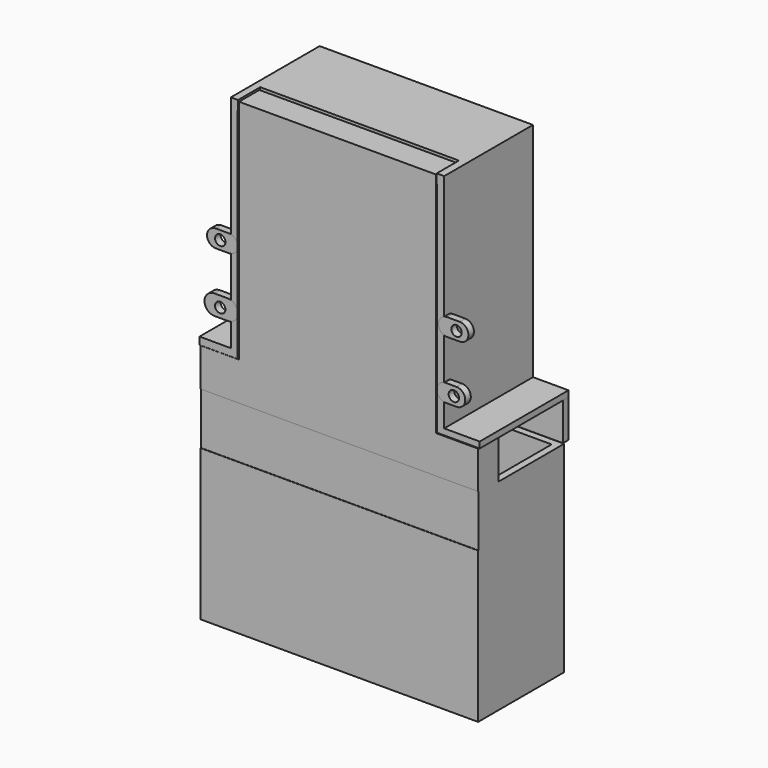
from build123d import *

# Parameters (mm, degrees)
SKETCH010_W      = 93.077843
SKETCH010_H      = 9.359066
EXTRUDE009_DEPTH = 15
SKETCH007_R      = 0.8
EXTRUDE006_DEPTH = 7
SKETCH005_R      = 3
EXTRUDE005_DEPTH = 7
SKETCH009_W      = 24.537708
SKETCH009_H      = 68.216004
SKETCH009_W_2    = 22.6015
SKETCH009_H_2    = 69.83175
EXTRUDE008_DEPTH = 10
SKETCH008_R      = 1.2
EXTRUDE007_DEPTH = 10
SKETCH004_R      = 2.5
SKETCH004_R_2    = 4
EXTRUDE004_DEPTH = 10
SKETCH003_W      = 103.848324
SKETCH003_H      = 26.207784
EXTRUDE002_DEPTH = 130
SKETCH001_W      = 76
SKETCH001_H      = 26
EXTRUDE001_DEPTH = 131
SKETCH_W         = 80
SKETCH_H         = 31
EXTRUDE_DEPTH    = 135
EXTRUDE003_DEPTH = 58
SKETCH013_W      = 29.132362
SKETCH013_H      = 15.300188
EXTRUDE012_DEPTH = 25
EXTRUDE010_DEPTH = 23
EXTRUDE011_DEPTH = 17
SKETCH018_W      = 57.288389
SKETCH018_H      = 6.586639
EXTRUDE017_DEPTH = 8
SKETCH017_R      = 2.5
EXTRUDE016_DEPTH = 60
SKETCH016_W      = 17.079002
SKETCH016_H      = 64.598137
SKETCH016_W_2    = 16.704249
SKETCH016_H_2    = 67.157876
EXTRUDE015_DEPTH = 40
SKETCH015_W      = 57.454796
SKETCH015_H      = 63.68901
EXTRUDE014_DEPTH = 30
SKETCH014_W      = 80.79409
SKETCH014_H      = 65.794357
EXTRUDE013_DEPTH = 32
SKETCH020_R      = 1.5
EXTRUDE019_DEPTH = 10
EXTRUDE018_DEPTH = 2
SKETCH021_W      = 80.805672
SKETCH021_H      = 1.984962
PAD_DEPTH        = 11


with BuildPart() as extrude010:
    # Sketch010 → Extrude009 (new body)
    with BuildSketch(Plane(origin=(0, -7, 77), x_dir=(1, 0, 0), z_dir=(0, 0, 1))):
        with BuildLine():
            ThreePointArc((7.051293, 25.057455), (0.051293, 32.057455), (-6.948707, 25.057455))
            Line((-6.948707, 25.057455), (-6.948707, 13.8))
            ThreePointArc((-6.948707, 13.8), (0.051293, 6.8), (7.051293, 13.8))
            Line((7.051293, 25.057455), (7.051293, 13.8))
        make_face()
        with Locations((0.9986, -13.084015)):
            Rectangle(SKETCH010_W, SKETCH010_H)
    extrude(amount=EXTRUDE009_DEPTH)


with BuildPart() as extrude010_1:
    # Extrude009 placement: moved
    add(extrude010.part.moved(Location((0, 0, -33.5))))


with BuildPart() as extrude007:
    # Sketch007 → Extrude006 (new body)
    with BuildSketch(Plane.XZ.offset(-0.01)):
        with Locations((-20.75, 129.764284)):
            Circle(SKETCH007_R)
        with Locations((20.75, 129.795168)):
            Circle(SKETCH007_R)
        with Locations((-20.75, 63.764284)):
            Circle(SKETCH007_R)
        with Locations((20.75, 63.795168)):
            Circle(SKETCH007_R)
    extrude(amount=EXTRUDE006_DEPTH)


with BuildPart() as cut003:
    # Sketch005 → Extrude005 (new body)
    with BuildSketch(Plane(origin=(0, 0.01, 52), x_dir=(1, 0, 0), z_dir=(0, -1, 0))):
        with Locations((-20.75, 78)):
            Circle(SKETCH005_R)
        with Locations((20.75, 78)):
            Circle(SKETCH005_R)
        with Locations((-20.75, 12)):
            Circle(SKETCH005_R)
        with Locations((20.75, 12)):
            Circle(SKETCH005_R)
    extrude(amount=EXTRUDE005_DEPTH)

    # Cut003: cut Extrude007
    add(extrude007.part, mode=Mode.SUBTRACT)


with BuildPart() as cut003_1:
    # Cut003 placement: moved
    add(cut003.part.moved(Location((0, -8.5, 0))))


with BuildPart() as extrude009:
    # Sketch009 → Extrude008 (new body)
    with BuildSketch(Plane.XZ.offset(-0.01)):
        with Locations((40.089445, 103.476563)):
            Rectangle(SKETCH009_W, SKETCH009_H)
        with Locations((-40.26037, 104.452671)):
            Rectangle(SKETCH009_W_2, SKETCH009_H_2)
    extrude(amount=EXTRUDE008_DEPTH)


with BuildPart() as extrude009_1:
    # Extrude008 placement: moved
    add(extrude009.part.moved(Location((0, -7, 0))))


with BuildPart() as extrude008:
    # Sketch008 → Extrude007 (new body)
    with BuildSketch(Plane.XZ.offset(-0.01)):
        with Locations((-12.14148, 116.549133)):
            Circle(SKETCH008_R)
        with Locations((12.29355, 116.598198)):
            Circle(SKETCH008_R)
        with Locations((-12.14148, 97.217003)):
            Circle(SKETCH008_R)
        with Locations((14.354336, 97.315132)):
            Circle(SKETCH008_R)
        with Locations((-12.249469, 74.140152)):
            Circle(SKETCH008_R)
        with Locations((14.395116, 74.68615)):
            Circle(SKETCH008_R)
        with Locations((-0.012036, 130.015305)):
            Circle(SKETCH008_R)
    extrude(amount=EXTRUDE007_DEPTH)


with BuildPart() as extrude008_1:
    # Extrude007 placement: moved
    add(extrude008.part.moved(Location((0, -4, 0))))


with BuildPart() as extrude005:
    # Sketch004 → Extrude004 (new body)
    with BuildSketch(Plane.XY.offset(0.01)):
        with Locations((-10, 2.5)):
            Circle(SKETCH004_R)
        with Locations((10, 2.5)):
            Circle(SKETCH004_R_2)
    extrude(amount=EXTRUDE004_DEPTH)


with BuildPart() as extrude005_1:
    # Extrude004 placement: moved
    add(extrude005.part.moved(Location((0, 0, -2))))


with BuildPart() as extrude003:
    # Sketch003 → Extrude002 (new body)
    with BuildSketch(Plane.XY.offset(0.01)):
        with Locations((1.479216, 4.939742)):
            Rectangle(SKETCH003_W, SKETCH003_H)
    extrude(amount=EXTRUDE002_DEPTH)


with BuildPart() as extrude003_1:
    # Extrude002 placement: moved
    add(extrude003.part.moved(Location((0, 0, 58))))


with BuildPart() as extrude001:
    # Sketch001 → Extrude001 (new body)
    with BuildSketch(Plane.XY.offset(0.01)):
        with Locations((0, 0.5)):
            Rectangle(SKETCH001_W, SKETCH001_H)
    extrude(amount=EXTRUDE001_DEPTH)


with BuildPart() as extrude001_1:
    # Extrude001 placement: moved
    add(extrude001.part.moved(Location((0, 0, 3))))


with BuildPart() as cut005:
    # Sketch → Extrude (new body)
    with BuildSketch(Plane.XY.offset(0.01)):
        Rectangle(SKETCH_W, SKETCH_H)
    extrude(amount=EXTRUDE_DEPTH)

    # Cut: cut Extrude001
    add(extrude001_1.part, mode=Mode.SUBTRACT)

    # Cut001: cut Extrude003
    add(extrude003_1.part, mode=Mode.SUBTRACT)

    # Cut002: cut Extrude005
    add(extrude005_1.part, mode=Mode.SUBTRACT)

    # Cut004: cut Extrude008
    add(extrude008_1.part, mode=Mode.SUBTRACT)

    # Cut005: cut Extrude009
    add(extrude009_1.part, mode=Mode.SUBTRACT)


with BuildPart() as cut006:
    # Sketch002 → Extrude003 (new body)
    with BuildSketch(Plane.XY.offset(0.01)):
        with BuildLine():
            ThreePointArc((1.2, 14), (0, 15.2), (-1.2, 14))
            Line((-1.2, 14), (-1.2, 1))
            ThreePointArc((-1.2, 1), (0, -0.2), (1.2, 1))
            Line((1.2, 14), (1.2, 1))
        make_face()
        with BuildLine():
            ThreePointArc((1.1, -7.5), (0, -6.4), (-1.1, -7.5))
            Line((-1.1, -7.5), (-1.1, -14))
            ThreePointArc((-1.1, -14), (0, -15.1), (1.1, -14))
            Line((1.1, -7.5), (1.1, -14))
        make_face()
    extrude(amount=EXTRUDE003_DEPTH)

    # Fusion: union Cut003, Cut005
    add(cut003_1.part)
    add(cut005.part)

    # Cut006: cut Extrude010
    add(extrude010_1.part, mode=Mode.SUBTRACT)


with BuildPart() as extrude013:
    # Sketch013 → Extrude012 (new body)
    with BuildSketch(Plane.XY.offset(0.01)):
        with Locations((0.559374, 23.156192)):
            Rectangle(SKETCH013_W, SKETCH013_H)
    extrude(amount=EXTRUDE012_DEPTH)


with BuildPart() as extrude013_1:
    # Extrude012 placement: moved
    add(extrude013.part.moved(Location((0, 0, 34))))


with BuildPart() as extrude011:
    # Sketch011 → Extrude010 (new body)
    with BuildSketch(Plane(origin=(0, -7, 0), x_dir=(1, 0, 0), z_dir=(0, 0, 1))):
        with BuildLine():
            ThreePointArc((7, 25.06), (0, 32.06), (-7, 25.06))
            Line((-7, 25.06), (-7, 13.8))
            ThreePointArc((-7, 13.8), (0, 6.8), (7, 13.8))
            Line((7, 25.06), (7, 13.8))
        make_face()
    extrude(amount=EXTRUDE010_DEPTH)


with BuildPart() as extrude011_1:
    # Extrude010 placement: moved
    add(extrude011.part.moved(Location((0, 0, 2))))


with BuildPart() as fusion001:
    # Sketch012 → Extrude011 (new body)
    with BuildSketch(Plane.XY.offset(0.01)):
        with BuildLine():
            ThreePointArc((-9, 7.295259), (0, -1.704741), (9, 7.295259))
            Line((9, 7.295259), (9, 18.555259))
            ThreePointArc((9, 18.555259), (0, 27.555259), (-9, 18.555259))
            Line((-9, 7.295259), (-9, 18.555259))
        make_face()
    extrude(amount=EXTRUDE011_DEPTH)

    # Cut007: cut Extrude011
    add(extrude011_1.part, mode=Mode.SUBTRACT)


with BuildPart() as fusion001_1:
    # Cut007 placement: moved
    add(fusion001.part.moved(Location((0, 0, 41))))

    # Cut008: cut Extrude013
    add(extrude013_1.part, mode=Mode.SUBTRACT)

    # Fusion001: union Cut006
    add(cut006.part)


with BuildPart() as extrude018:
    # Sketch018 → Extrude017 (new body)
    with BuildSketch(Plane.XZ.offset(-0.01)):
        with Locations((-0.592369, 133.981643)):
            Rectangle(SKETCH018_W, SKETCH018_H)
    extrude(amount=EXTRUDE017_DEPTH)


with BuildPart() as extrude018_1:
    # Extrude017 placement: moved
    add(extrude018.part.moved(Location((0, -7.5, 1))))


with BuildPart() as extrude017:
    # Sketch017 → Extrude016 (new body)
    with BuildSketch(Plane(origin=(-1, 0, 33), x_dir=(1, 0, 0), z_dir=(0, -1, 0))):
        with Locations((14.152449, 69.535789)):
            Circle(SKETCH017_R)
    extrude(amount=EXTRUDE016_DEPTH)


with BuildPart() as extrude017_1:
    # Extrude016 placement: moved
    add(extrude017.part.moved(Location((0, 26, 0))))


with BuildPart() as extrude016:
    # Sketch016 → Extrude015 (new body)
    with BuildSketch(Plane.XZ.offset(-0.01)):
        with Locations((38.748684, 103.625293)):
            Rectangle(SKETCH016_W, SKETCH016_H)
        with Locations((-39.662146, 105.271389)):
            Rectangle(SKETCH016_W_2, SKETCH016_H_2)
    extrude(amount=EXTRUDE015_DEPTH)


with BuildPart() as extrude016_1:
    # Extrude015 placement: moved
    add(extrude016.part.moved(Location((0, 18, 0))))


with BuildPart() as extrude015:
    # Sketch015 → Extrude014 (new body)
    with BuildSketch(Plane.XZ.offset(-0.01)):
        with Locations((-0.612196, 100.800133)):
            Rectangle(SKETCH015_W, SKETCH015_H)
    extrude(amount=EXTRUDE014_DEPTH)


with BuildPart() as extrude015_1:
    # Extrude014 placement: moved
    add(extrude015.part.moved(Location((0, 14.5, 0))))


with BuildPart() as cut012:
    # Sketch014 → Extrude013 (new body)
    with BuildSketch(Plane.XZ.offset(-0.01)):
        with Locations((0.053276, 102.457359)):
            Rectangle(SKETCH014_W, SKETCH014_H)
    extrude(amount=EXTRUDE013_DEPTH)


with BuildPart() as cut012_1:
    # Extrude013 placement: moved
    add(cut012.part.moved(Location((0, 16.5, 0))))

    # Cut009: cut Extrude015
    add(extrude015_1.part, mode=Mode.SUBTRACT)

    # Cut010: cut Extrude016
    add(extrude016_1.part, mode=Mode.SUBTRACT)

    # Cut011: cut Extrude017
    add(extrude017_1.part, mode=Mode.SUBTRACT)

    # Cut012: cut Extrude018
    add(extrude018_1.part, mode=Mode.SUBTRACT)


with BuildPart() as extrude020:
    # Sketch020 → Extrude019 (new body)
    with BuildSketch(Plane.XZ.offset(13)):
        with Locations((-34.356541, 98.11187)):
            Circle(SKETCH020_R)
        with Locations((33.767742, 97.22776)):
            Circle(SKETCH020_R)
        with Locations((-34.362225, 81.008202)):
            Circle(SKETCH020_R)
        with Locations((32.997753, 80.42675)):
            Circle(SKETCH020_R)
    extrude(amount=EXTRUDE019_DEPTH)


with BuildPart() as cut013:
    # Sketch019 → Extrude018 (new body)
    with BuildSketch(Plane.XZ.offset(-0.01)):
        with BuildLine():
            ThreePointArc((30.673815, 83.024506), (28.145601, 80.496292), (30.673815, 77.968078))
            Line((30.673815, 77.968078), (33.753696, 77.968078))
            ThreePointArc((33.753696, 77.968078), (36.28191, 80.496292), (33.753696, 83.024506))
            Line((30.673815, 83.024506), (33.753696, 83.024506))
        make_face()
        with BuildLine():
            ThreePointArc((31.088104, 99.843666), (28.575554, 97.331116), (31.088104, 94.818566))
            Line((31.088104, 94.818566), (34.675403, 94.818566))
            ThreePointArc((34.675403, 94.818566), (37.187953, 97.331116), (34.675403, 99.843666))
            Line((31.088104, 99.843666), (34.675403, 99.843666))
        make_face()
        with BuildLine():
            ThreePointArc((-35.645515, 100.657669), (-38.172248, 98.130936), (-35.645515, 95.604203))
            Line((-35.645515, 95.604203), (-31.860769, 95.604203))
            ThreePointArc((-31.860769, 95.604203), (-29.334036, 98.130936), (-31.860769, 100.657669))
            Line((-35.645515, 100.657669), (-31.860769, 100.657669))
        make_face()
        with BuildLine():
            ThreePointArc((-36.032362, 84.046471), (-38.900701, 81.178131), (-36.032362, 78.309792))
            Line((-36.032362, 78.309792), (-32.18456, 78.309792))
            ThreePointArc((-32.18456, 78.309792), (-29.31622, 81.178131), (-32.18456, 84.046471))
            Line((-36.032362, 84.046471), (-32.18456, 84.046471))
        make_face()
    extrude(amount=EXTRUDE018_DEPTH)


with BuildPart() as cut013_1:
    # Extrude018 placement: moved
    add(cut013.part.moved(Location((0, -13.5, 0))))

    # Cut013: cut Extrude020
    add(extrude020.part, mode=Mode.SUBTRACT)


with BuildPart() as body001:
    # Sketch021 → Pad (new body)
    with BuildSketch(Plane.XY):
        with Locations((0.036755, 15.527428)):
            Rectangle(SKETCH021_W, SKETCH021_H)
    extrude(amount=PAD_DEPTH)


with BuildPart() as body001_1:
    # Body001 placement: moved
    add(body001.part.moved(Location((0, 0, 58.7))))


solid = Compound([fusion001_1.part, cut012_1.part, cut013_1.part, body001_1.part])
